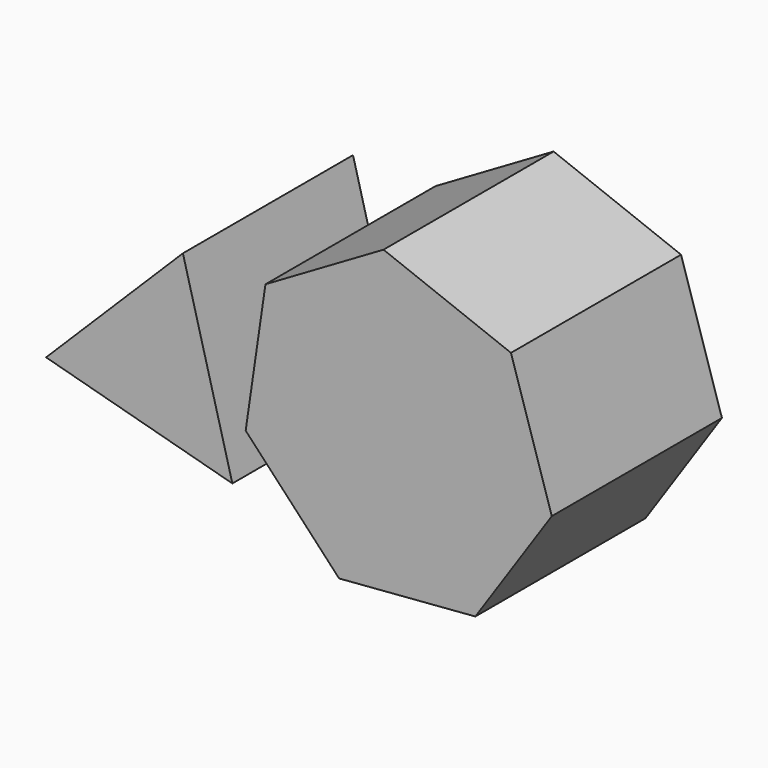
from build123d import *

# Parameters (mm, degrees)
F1_DEPTH = 87.270716


with BuildPart() as f1:
    # F0 (on Front) → F1 (new body)
    with BuildSketch(Plane.XZ):
        Polygon((4.059992, 27.756261), (-4.059992, -27.756261), (34.278718, -68.716211), (90.206292, -64.279911), (121.608125, -17.787986), (104.837996, 35.750197), (52.524156, 56.019293), align=None)
        Polygon((-29.818171, 27.933902), (-85.983611, -27.933902), (-9.517953, -48.640698), align=None)
    extrude(amount=F1_DEPTH)


solid = f1.part
